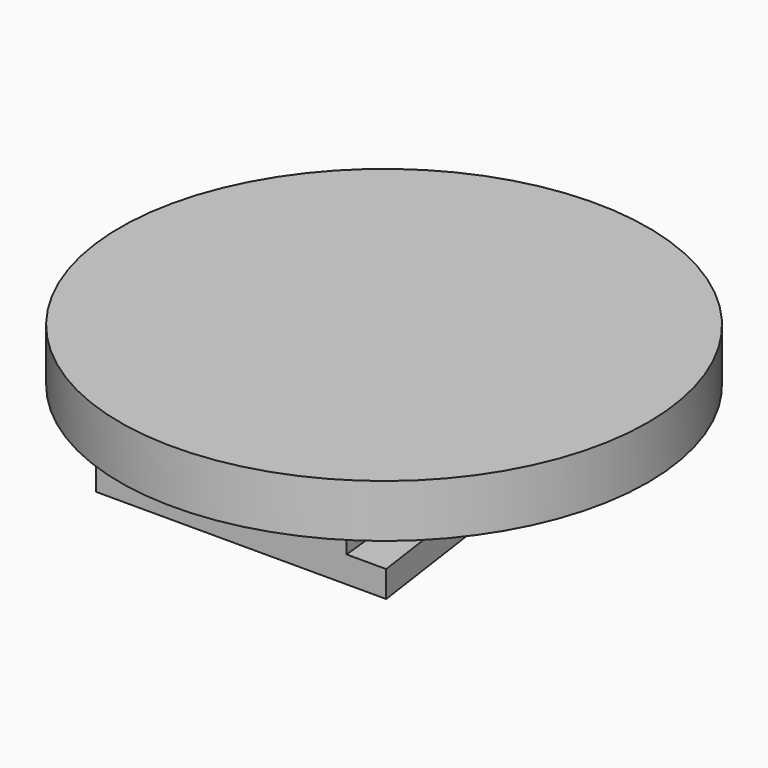
from build123d import *

# Parameters (mm, degrees)
F1_DEPTH      = 1.5875
F3_DEPTH      = 17.4635
F5_DEPTH      = 2.54
F5_DEPTH_BACK = 1.5875
F6_R          = 15.875
F7_DEPTH      = 3.175


with BuildPart() as f1:
    # F0 (on Top) → F1 (new body)
    with BuildSketch(Plane.XY):
        Polygon((3.175, 22.225), (0, 0), (17.4625, 0), (14.2875, 22.225), (8.73125, 22.225), align=None)
    extrude(amount=F1_DEPTH)

    # F2 (on Right) → F3 (cut, through all)
    with BuildSketch(Plane.YZ):
        Polygon((5.840029, 3.627038), (22.225, 0.635), (22.723673, 7.972618), (5.840029, 7.972618), align=None)
    extrude(amount=F3_DEPTH, mode=Mode.SUBTRACT)

    # F4 (on face) → F5 (join, two sides)
    with BuildSketch(Plane.XY.offset(1.5875)) as f5_sk:
        with BuildLine():
            Line((2.38125, 0), (8.73125, 0))
            Line((8.73125, 0), (15.08125, 0))
            Line((15.08125, 0), (12.821199, 21.168127))
            ThreePointArc((12.821199, 21.168127), (12.407396, 21.977792), (11.558376, 22.3033))
            Line((11.558376, 22.3033), (8.73125, 22.3033))
            Line((8.73125, 22.3033), (5.904124, 22.3033))
            ThreePointArc((5.904124, 22.3033), (5.055104, 21.977792), (4.641301, 21.168127))
            Line((4.641301, 21.168127), (2.38125, 0))
        make_face()
    extrude(amount=F5_DEPTH)
    extrude(f5_sk.sketch, amount=-F5_DEPTH_BACK)

    # F6 (on face) → F7 (join)
    with BuildSketch(Plane.XY.offset(4.1275)):
        with Locations((8.73125, 10.752532)):
            Circle(F6_R)
    extrude(amount=F7_DEPTH)


solid = f1.part
